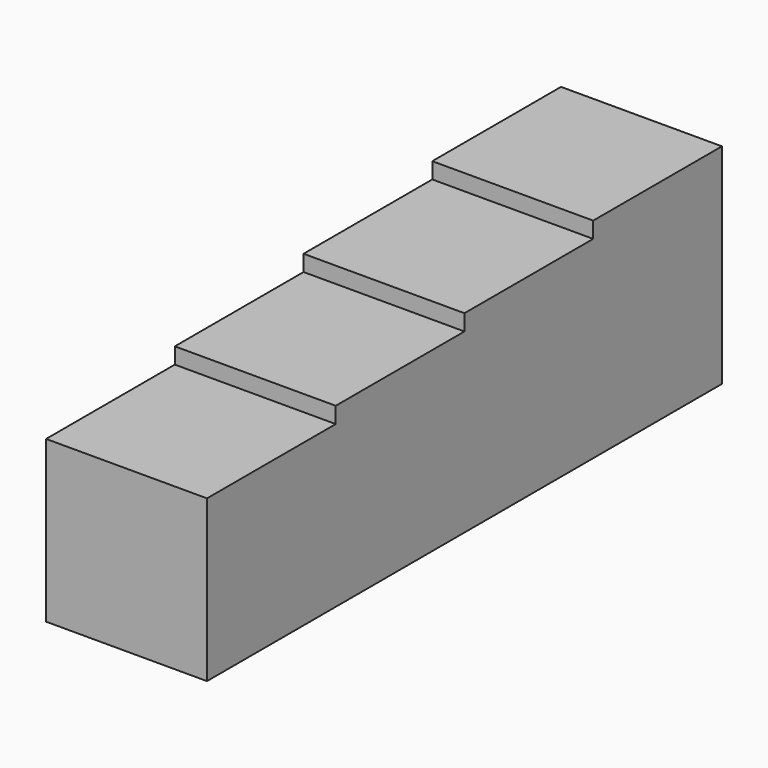
from build123d import *

# Parameters (mm, degrees)
F0_W     = 25.4
F0_H     = 25.4
F1_DEPTH = 101.6
F0_H_2   = 2.54
F2_DEPTH = 76.2
F3_DEPTH = 50.8
F4_DEPTH = 25.4


with BuildPart() as f1:
    # F0 (on Front) → F1 (new body)
    with BuildSketch(Plane.XZ):
        with Locations((12.7, 12.7)):
            Rectangle(F0_W, F0_H)
    extrude(amount=F1_DEPTH)

    # F0 (on Front) → F2 (join)
    with BuildSketch(Plane.XZ):
        with Locations((12.7, 26.67)):
            Rectangle(F0_W, F0_H_2)
    extrude(amount=F2_DEPTH)

    # F0 (on Front) → F3 (join)
    with BuildSketch(Plane.XZ):
        with Locations((12.7, 29.21)):
            Rectangle(F0_W, F0_H_2)
    extrude(amount=F3_DEPTH)

    # F0 (on Front) → F4 (join)
    with BuildSketch(Plane.XZ):
        with Locations((12.7, 31.75)):
            Rectangle(F0_W, F0_H_2)
    extrude(amount=F4_DEPTH)


solid = f1.part
